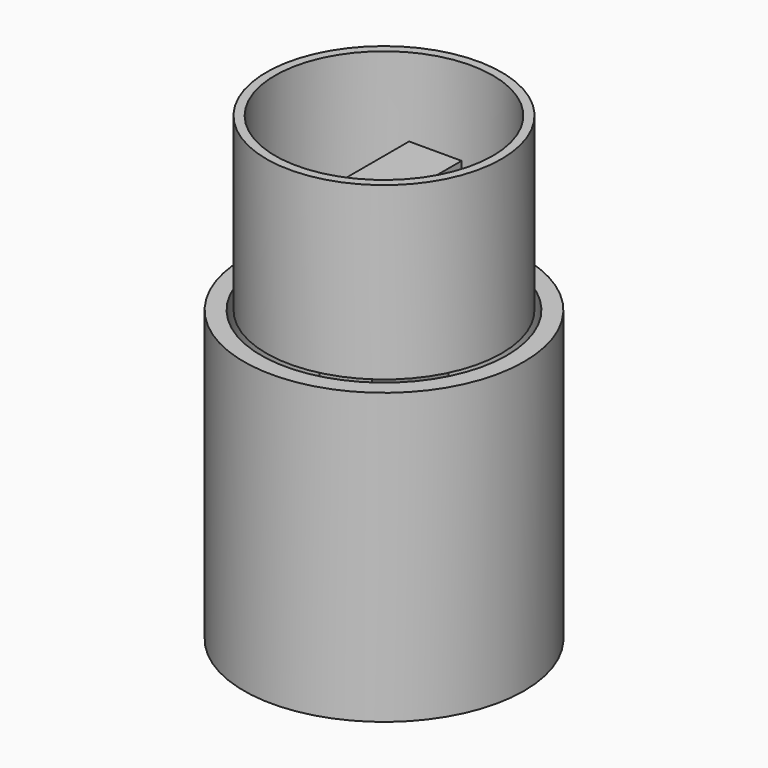
from build123d import *

# Parameters (mm, degrees)
F0_R     = 36.6017066127
F0_R_2   = 32.1217103556
F1_DEPTH = 75.692
F2_R     = 30.717200423
F2_R_2   = 28.4384268771
F3_DEPTH = 44.704
F4_W     = 4.2672031559
F4_H     = 8.5344002582
F5_DEPTH = 6.858


with BuildPart() as f1:
    # F0 (on Top) → F1 (new body)
    with BuildSketch(Plane.XY):
        Circle(F0_R)
        Circle(F0_R_2, mode=Mode.SUBTRACT)
    extrude(amount=-F1_DEPTH)


with BuildPart() as f3:
    # F2 (on Top) → F3 (new body)
    with BuildSketch(Plane.XY):
        Circle(F2_R)
        Circle(F2_R_2, mode=Mode.SUBTRACT)
    extrude(amount=F3_DEPTH)


with BuildPart() as f5:
    # F4 (on Right) → F5 (new body)
    with BuildSketch(Plane.YZ):
        Polygon((-2.133601578, 7.7724005096), (-12.4967992306, 7.7724005096), (-12.4967992306, -74.5236049406), (12.4967992306, -74.5236049406), (12.4967992306, 7.7724005096), (2.133601578, 7.7724005096), (2.133601578, -0.7619997486), (-2.133601578, -0.7619997486), align=None)
        with Locations((0, 12.0396006387)):
            Rectangle(F4_W, F4_H)
        with Locations((0, 3.5052003805)):
            Rectangle(F4_W, F4_H)
        Polygon((-16.7640019208, 16.3068007678), (-2.133601578, 16.3068007678), (2.133601578, 16.3068007678), (16.7640019208, 16.3068007678), (16.7640019208, 29.7180023044), (-16.7640019208, 29.7180023044), align=None)
    extrude(amount=F5_DEPTH)

    # F6: F5 across plane


with BuildPart() as f5_1:
    add(f5.part)
    add(f5.part.mirror(Plane.YZ))


solid = Compound([f1.part, f3.part, f5_1.part])
